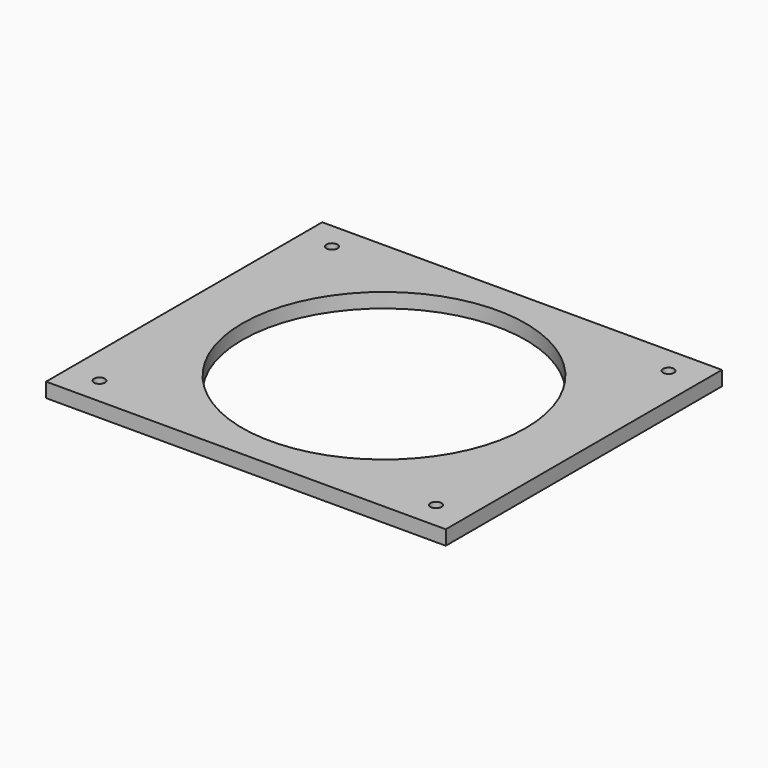
from build123d import *

# Parameters (mm, degrees)
SKETCH002_W   = 110
SKETCH002_H   = 95
SKETCH002_R   = 39
SKETCH002_R_2 = 1.5
PAD_DEPTH     = 4


with BuildPart() as part:
    # Sketch002 → Pad (new body)
    with BuildSketch(Plane.XY):
        with Locations((172.107132, 75)):
            Rectangle(SKETCH002_W, SKETCH002_H)
        with Locations((172.107132, 75)):
            Circle(SKETCH002_R, mode=Mode.SUBTRACT)
        with Locations((218.422921, 115)):
            Circle(SKETCH002_R_2, mode=Mode.SUBTRACT)
        with Locations((218.422921, 35)):
            Circle(SKETCH002_R_2, mode=Mode.SUBTRACT)
        with Locations((125.791343, 35)):
            Circle(SKETCH002_R_2, mode=Mode.SUBTRACT)
        with Locations((125.791343, 115)):
            Circle(SKETCH002_R_2, mode=Mode.SUBTRACT)
    extrude(amount=PAD_DEPTH)


solid = part.part
